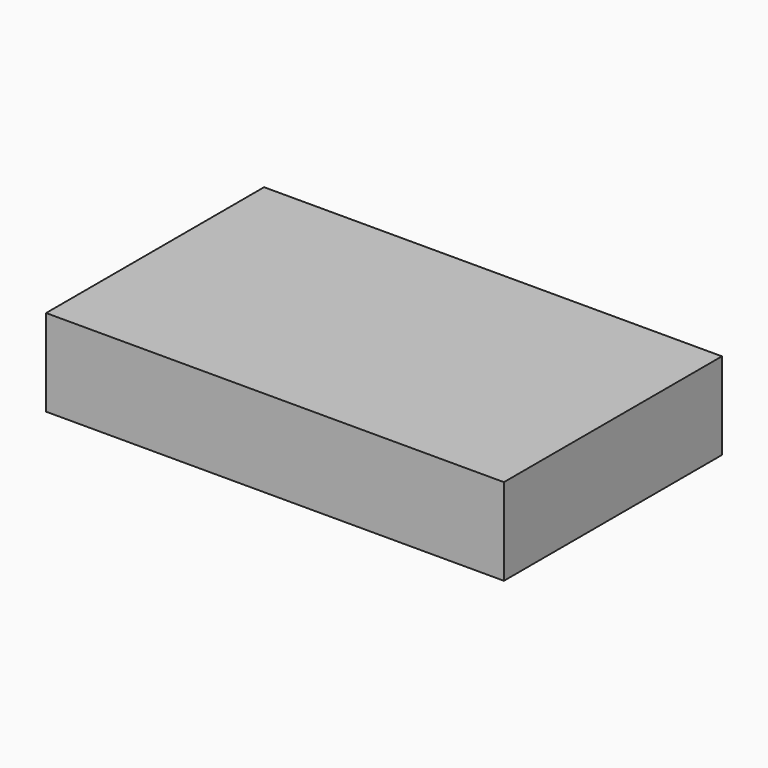
from build123d import *

# Parameters (mm, degrees)
F3_DEPTH = 20.32
F4_DEPTH = 30.48
F0_W     = 211.483144
F0_H     = 125.875018
F5_DEPTH = 40.12469


with BuildPart() as f3:
    # F1 (on Top) → F3 (new body)
    with BuildSketch(Plane.XY):
        Polygon((0, 45.720275), (-4.140248, 45.720275), (-4.144755, -45.720518), (0, -45.720518), (0, -38.86215), (66.039294, -38.86215), (66.039294, 38.862053), (0, 38.862053), align=None)
    extrude(amount=F3_DEPTH)

    # F2 (on Top) → F4 (join)
    with BuildSketch(Plane.XY):
        Polygon((-21.086555, -45.719682), (-4.144755, -45.720518), (-4.140248, 45.720275), (-21.082048, 45.720275), (-21.082048, 55.880275), (-46.482048, 55.880275), (-46.482548, 45.720276), (-66.040048, 45.72124), (-66.044555, -45.717466), (-46.486555, -45.71843), (-46.487056, -55.87843), (-21.087056, -55.879682), align=None)
    extrude(amount=F4_DEPTH)

    # F0 (on Top) → F5 (join)
    with BuildSketch(Plane.XY):
        with Locations((9.613108, -0.092279)):
            Rectangle(F0_W, F0_H)
    extrude(amount=F5_DEPTH)


solid = f3.part
